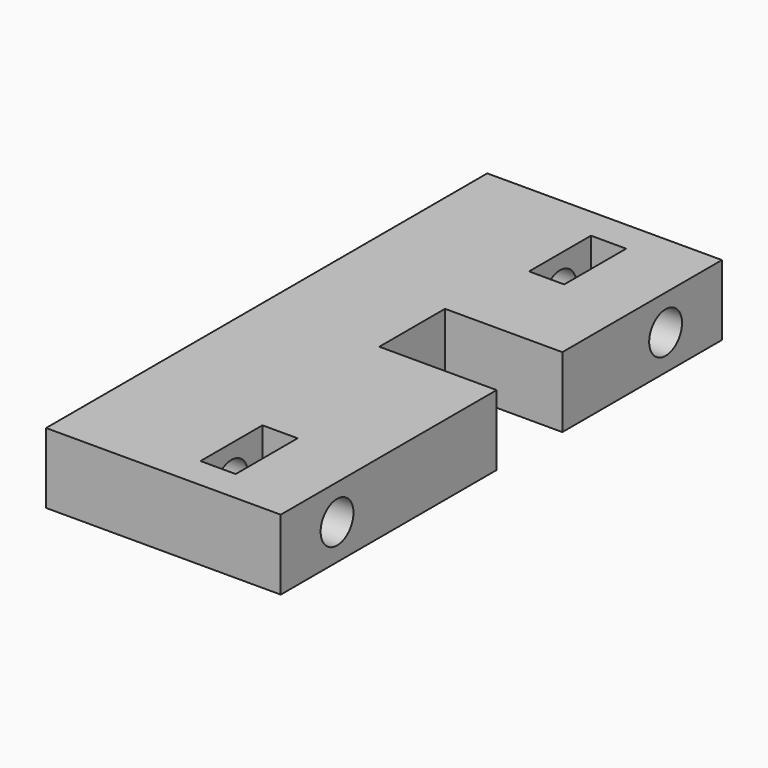
from build123d import *

# Parameters (mm, degrees)
F0_W     = 3
F0_H     = 6.6
F1_DEPTH = 6
F2_R     = 1.75
F3_DEPTH = 15


with BuildPart() as f1:
    # F0 (on Top) → F1 (new body)
    with BuildSketch(Plane.XY):
        Polygon((0, 47), (0, 0), (20, 0), (20, 23), (10, 23), (10, 30), (20, 30), (20, 47), align=None)
        with Locations((12.5, 6)):
            Rectangle(F0_W, F0_H, mode=Mode.SUBTRACT)
        with Locations((12.5, 41)):
            Rectangle(F0_W, F0_H, mode=Mode.SUBTRACT)
    extrude(amount=F1_DEPTH)

    # F2 (on face) → F3 (cut)
    with BuildSketch(Plane.YZ.offset(20)):
        with Locations((41, 3)):
            Circle(F2_R)
        with Locations((6, 3)):
            Circle(F2_R)
    extrude(amount=-F3_DEPTH, mode=Mode.SUBTRACT)


solid = f1.part
